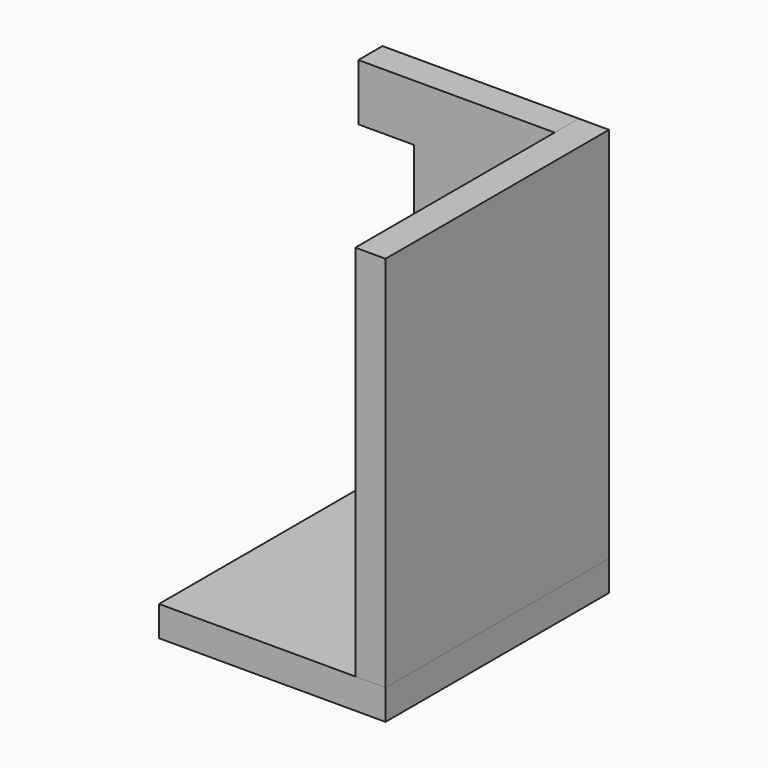
from build123d import *

# Parameters (mm, degrees)
F0_W         = 1500
F0_H         = 1850
F1_DEPTH     = 200
F2_W         = 1300
F2_H         = 200
F3_DEPTH     = 2500
F4_W         = 370
F4_H         = 1250
F3_FACE1_W   = 1500
F3_FACE1_H   = 200
F3_FACE1_W_2 = 1300
F3_FACE1_H_2 = 2500
F5_DEPTH     = 200.001
F6_DEPTH     = 2500


with BuildPart() as f1:
    # F0 (on Top) → F1 (new body)
    with BuildSketch(Plane.XY):
        with Locations((-750, -925)):
            Rectangle(F0_W, F0_H)
    extrude(amount=-F1_DEPTH)


with BuildPart() as f3:
    # F2 (on face) → F3 (new body)
    with BuildSketch(Plane.XY):
        with Locations((-850, -100)):
            Rectangle(F2_W, F2_H)
    extrude(amount=F3_DEPTH)

    # F4 (on face) + F3_face1 (on face) → F5 (cut, through all)
    with BuildSketch(Plane.XZ.offset(200)):
        with Locations((-1315, 1500)):
            Rectangle(F4_W, F4_H)
    with BuildSketch(Plane(origin=(-750, 0, -100), x_dir=(-1, 0, 0), z_dir=(0, 1, 0))):
        Rectangle(F3_FACE1_W, F3_FACE1_H)
        with Locations((100, 1350)):
            Rectangle(F3_FACE1_W_2, F3_FACE1_H_2)
    extrude(amount=-F5_DEPTH, dir=(0, -1, 0), mode=Mode.SUBTRACT)


with BuildPart() as f6:
    # F2 (on face) → F6 (new body, through all)
    with BuildSketch(Plane.XY):
        Polygon((0, 0), (-200, 0), (-200, -200), (-200, -1850), (0, -1850), align=None)
    extrude(amount=F6_DEPTH)


solid = Compound([f1.part, f3.part, f6.part])
